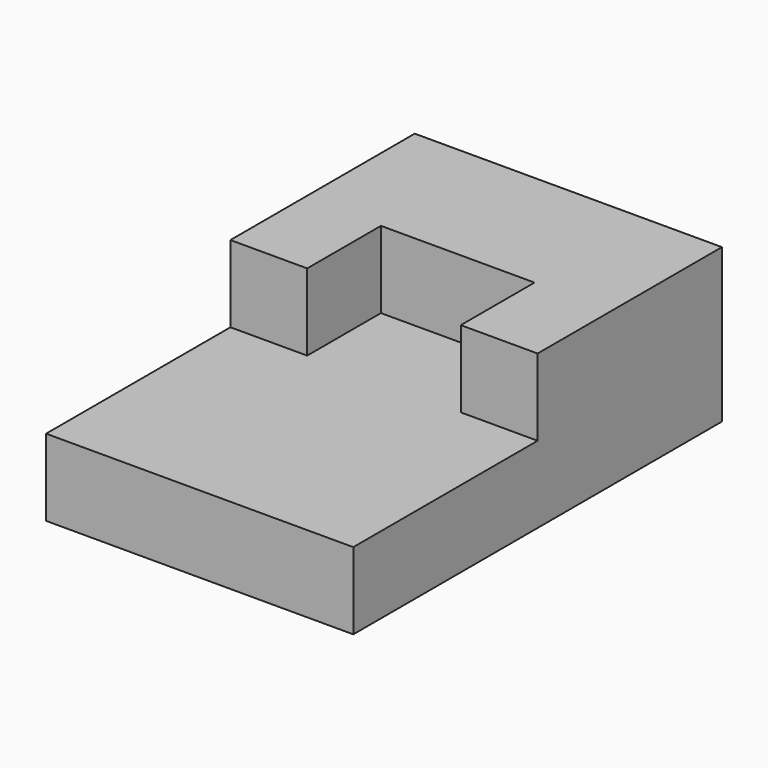
from build123d import *

# Parameters (mm, degrees)
F0_W     = 25.4
F0_H     = 38.1
F1_DEPTH = 6.35
F2_W     = 25.4
F2_H     = 19.05
F3_DEPTH = 6.35
F4_W     = 12.7
F4_H     = 15.24
F5_DEPTH = 6.35


with BuildPart() as f1:
    # F0 (on Top) → F1 (new body)
    with BuildSketch(Plane.XY):
        Rectangle(F0_W, F0_H)
    extrude(amount=F1_DEPTH)

    # F2 (on face) → F3 (join)
    with BuildSketch(Plane.XY.offset(6.35)):
        with Locations((0, 9.525)):
            Rectangle(F2_W, F2_H)
    extrude(amount=F3_DEPTH)

    # F4 (on face) → F5 (cut, symmetric)
    with BuildSketch(Plane.XY.offset(12.7)):
        Rectangle(F4_W, F4_H)
    extrude(amount=F5_DEPTH, both=True, mode=Mode.SUBTRACT)


solid = f1.part
